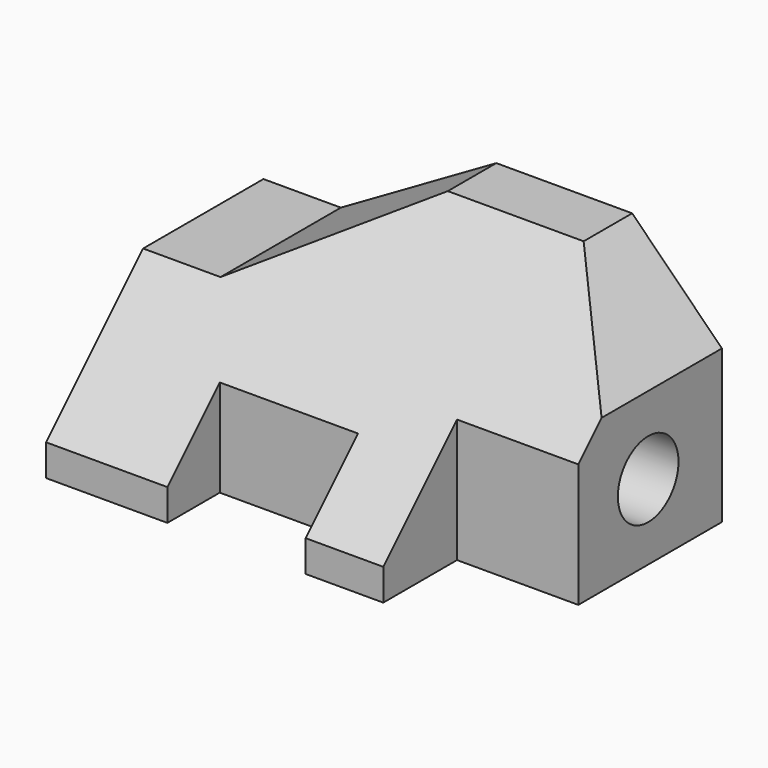
from build123d import *

# Parameters (mm, degrees)
F0_R     = 7.9375
F1_DEPTH = 96.012
F2_DEPTH = 31.75
F3_W     = 25.4
F3_H     = 19.304
F3_W_2   = 28.956
F3_H_2   = 13.716
F4_DEPTH = 51.562
F6_DEPTH = 69.088


with BuildPart() as f1:
    # F0 (on Right) → F1 (new body)
    with BuildSketch(Plane.YZ):
        Polygon((0, 6.604), (0, 0), (56.896, 0), (56.896, 50.8), (44.196, 50.8), align=None)
        with Locations((37.592, 15.748)):
            Circle(F0_R, mode=Mode.SUBTRACT)
        with Locations((37.592, 15.748)):
            Circle(F0_R)
    extrude(amount=-F1_DEPTH)

    # F0 (on Right) → F2 (cut)
    with BuildSketch(Plane.YZ):
        with Locations((37.592, 15.748)):
            Circle(F0_R)
    extrude(amount=-F2_DEPTH, mode=Mode.SUBTRACT)

    # F3 (on face) → F4 (cut)
    with BuildSketch(Plane(origin=(0, 0, 0), x_dir=(1, 0, 0), z_dir=(0, 0, -1))):
        with Locations((-12.7, -9.652)):
            Rectangle(F3_W, F3_H)
        with Locations((-56.134, -6.858)):
            Rectangle(F3_W_2, F3_H_2)
    extrude(amount=-F4_DEPTH, mode=Mode.SUBTRACT)

    # F5 (on face) → F6 (cut)
    with BuildSketch(Plane(origin=(0, 56.896, 0), x_dir=(-1, 0, 0), z_dir=(0, 1, 0))):
        Polygon((18.796, 50.8), (0, 50.8), (0, 32.004), align=None)
        Polygon((96.012, 50.8), (47.244, 50.8), (79.799627, 32.004), (96.012, 32.004), align=None)
    extrude(amount=-F6_DEPTH, mode=Mode.SUBTRACT)


solid = f1.part
